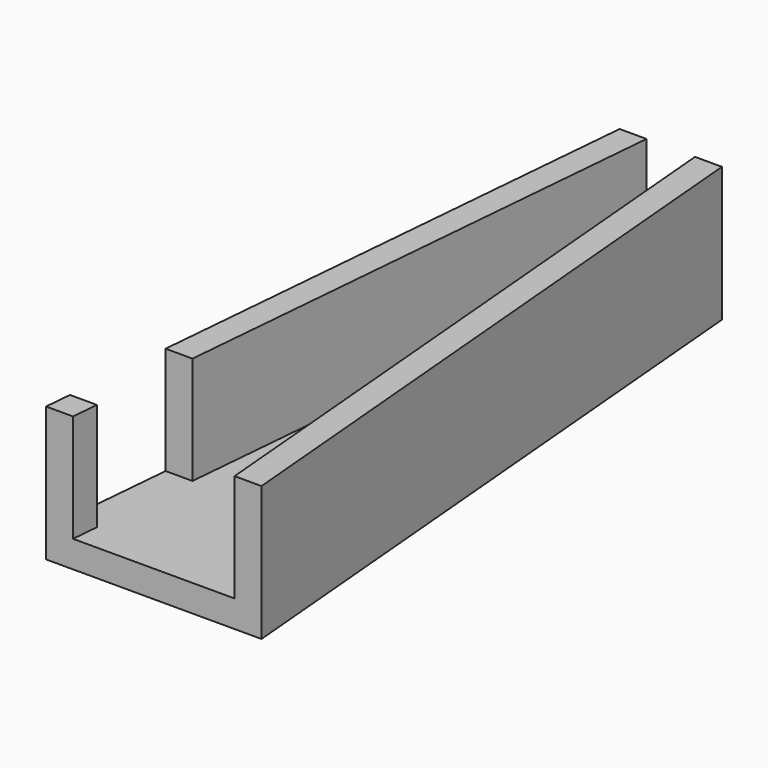
from build123d import *

# Parameters (mm, degrees)
F1_DEPTH = 3.175
F3_DEPTH = 12.7
F5_DEPTH = 12.7


with BuildPart() as f1:
    # F0 (on Top) → F1 (new body)
    with BuildSketch(Plane.XY):
        Polygon((-6.0333638393, 76.2), (-12.7, 0), (12.7, 0), (6.0333638393, 76.2), align=None)
    extrude(amount=-F1_DEPTH)

    # F2 (on face) → F3 (join)
    with BuildSketch(Plane.XY):
        Polygon((-2.8583638393, 76.2), (-6.0333638393, 76.2), (-12.7, 0), (-9.525, 0), align=None)
        Polygon((12.7, 0), (6.0333638393, 76.2), (2.8583638393, 76.2), (9.525, 0), align=None)
    extrude(amount=F3_DEPTH)

    # F4 (on face) → F5 (cut, through all)
    with BuildSketch(Plane.XY.offset(12.7)):
        Polygon((0, 15.875), (-11.3111174665, 15.875), (-12.4222234933, 3.175), (0, 3.175), align=None)
    extrude(amount=-F5_DEPTH, mode=Mode.SUBTRACT)


solid = f1.part
